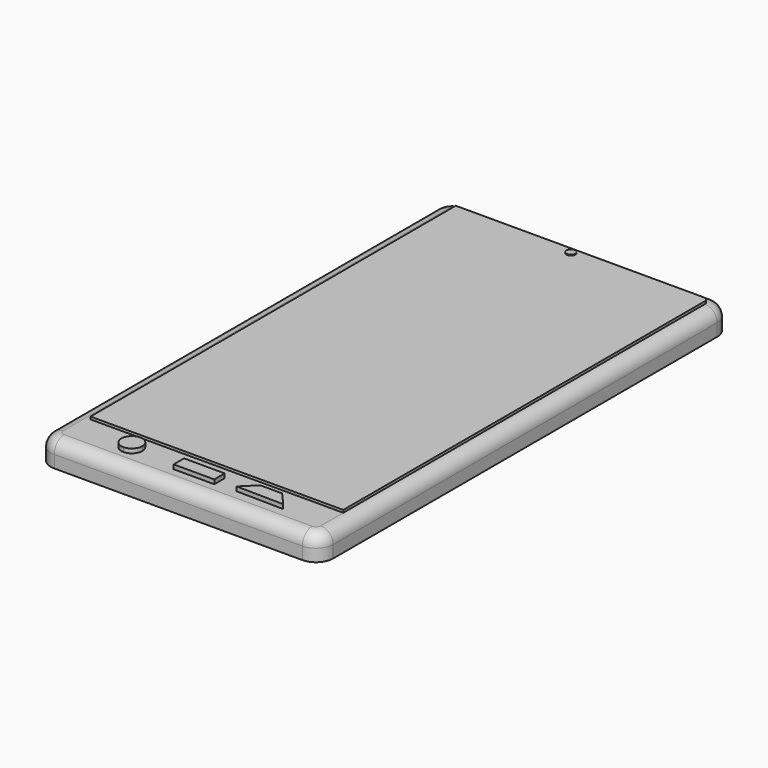
from build123d import *

# Parameters (mm, degrees)
F0_W     = 83.82
F0_H     = 152.6999994
F1_DEPTH = 7.35000054
F2_R     = 5.08
F3_R     = 3.6792614691
F5_DEPTH = 0.762
F4_W     = 12.0734181255
F4_H     = 3.8634948432
F6_DEPTH = 1.27
F8_DEPTH = 0.254


with BuildPart() as f1:
    # F0 (on Top) → F1 (new body)
    with BuildSketch(Plane.XY):
        with Locations((-35.9417264286, 32.7416635112)):
            Rectangle(F0_W, F0_H)
    extrude(amount=F1_DEPTH)

    # F2
    f2_edges = [f1.edges().sort_by_distance(p)[0] for p in [
        (5.968274, -43.608336, 3.675),
        (-77.851726, -43.608336, 3.675),
        (-77.851726, 109.091663, 3.675),
        (5.968274, 109.091663, 3.675),
    ]]
    fillet(f2_edges, radius=F2_R)

    # F3
    f3_edges = [f1.edges().sort_by_distance(p)[0] for p in [
        (5.968274, 32.741664, 7.350001),
        (-77.851726, 32.741664, 7.350001),
    ]]
    fillet(f3_edges, radius=F3_R)

    # F4 (on face) → F5 (join)
    with BuildSketch(Plane.XY.offset(7.35000054)):
        with BuildLine():
            Line((0.8882735714, 105.4124017422), (-72.7717264286, 105.4124017422))
            Line((-72.7717264286, 105.4124017422), (-72.7717264286, -30.1608517766))
            Line((-72.7717264286, -30.1608517766), (-56.5872713923, -30.1608517766))
            Line((-56.5872713923, -30.1608517766), (2.2890121023, -30.1608517766))
            Line((2.2890121023, -30.1608517766), (2.2890121023, 104.0116632112))
            ThreePointArc((2.2890121023, 104.0116632112), (1.8787452853, 105.0021349251), (0.8882735714, 105.4124017422))
        make_face()
    extrude(amount=F5_DEPTH)

    # F4 (on face) → F6 (join)
    with BuildSketch(Plane.XY.offset(7.35000054)):
        with Locations((-36.062461324, -35.7146207243)):
            Rectangle(F4_W, F4_H)
        with BuildLine():
            ThreePointArc((-53.467959375, -35.0449632482), (-54.3815847122, -32.839276568), (-56.5872713923, -31.9256512308))
            Line((-56.5872713923, -31.9256512308), (-56.5872713923, -35.0449632482))
            Line((-56.5872713923, -35.0449632482), (-56.5872713923, -38.1642752656))
            ThreePointArc((-56.5872713923, -38.1642752656), (-54.3815847122, -37.2506499283), (-53.467959375, -35.0449632482))
        make_face()
        with BuildLine():
            Line((-56.5872713923, -35.0449632482), (-56.5872713923, -31.9256512308))
            ThreePointArc((-56.5872713923, -31.9256512308), (-58.7929580725, -32.839276568), (-59.7065834097, -35.0449632482))
            Line((-59.7065834097, -35.0449632482), (-56.5872713923, -35.0449632482))
        make_face()
        with BuildLine():
            Line((-56.5872713923, -35.0449632482), (-59.7065834097, -35.0449632482))
            ThreePointArc((-59.7065834097, -35.0449632482), (-58.7929580725, -37.2506499283), (-56.5872713923, -38.1642752656))
            Line((-56.5872713923, -38.1642752656), (-56.5872713923, -35.0449632482))
        make_face()
        Polygon((-19.8840815574, -33.2999378443), (-23.747574538, -37.1634289622), (-9.7494691825, -37.3968959546), (-13.3644351736, -33.2999378443), align=None)
    extrude(amount=F6_DEPTH)

    # F7 (on face) → F8 (join)
    with BuildSketch(Plane.XY.offset(8.11200054)):
        with BuildLine():
            Line((-37.0942167938, 103.5466420086), (-38.4271452132, 103.5466420086))
            ThreePointArc((-38.4271452132, 103.5466420086), (-38.036739518, 102.6041192844), (-37.0942167938, 102.2137135892))
            Line((-37.0942167938, 102.2137135892), (-37.0942167938, 103.5466420086))
        make_face()
        with BuildLine():
            Line((-35.7612883744, 103.5466420086), (-37.0942167938, 103.5466420086))
            Line((-37.0942167938, 103.5466420086), (-37.0942167938, 102.2137135892))
            ThreePointArc((-37.0942167938, 102.2137135892), (-36.1516940696, 102.6041192844), (-35.7612883744, 103.5466420086))
        make_face()
        with BuildLine():
            ThreePointArc((-35.7612883744, 103.5466420086), (-36.1516940696, 104.4891647328), (-37.0942167938, 104.879570428))
            Line((-37.0942167938, 104.879570428), (-37.0942167938, 103.5466420086))
            Line((-37.0942167938, 103.5466420086), (-35.7612883744, 103.5466420086))
        make_face()
        with BuildLine():
            Line((-37.0942167938, 103.5466420086), (-37.0942167938, 104.879570428))
            ThreePointArc((-37.0942167938, 104.879570428), (-38.036739518, 104.4891647328), (-38.4271452132, 103.5466420086))
            Line((-38.4271452132, 103.5466420086), (-37.0942167938, 103.5466420086))
        make_face()
    extrude(amount=F8_DEPTH)


solid = f1.part
